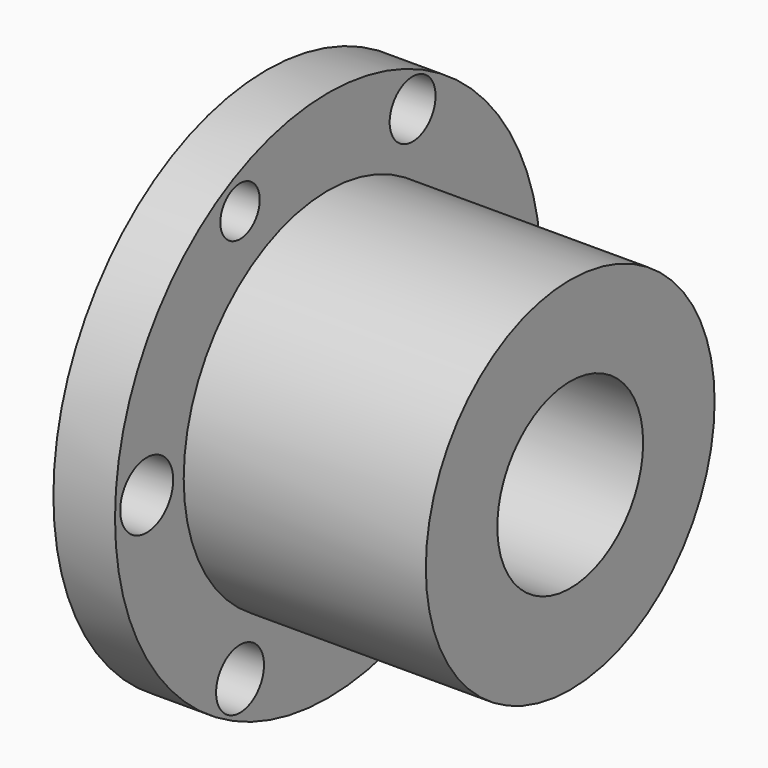
from build123d import *

# Parameters (mm, degrees)
F0_W     = 26.4738108963
F0_H     = 8.0572450534
F2_R     = 7.9422363179
F3_DEPTH = 26.4738108963
F5_R     = 2.1448281624
F5_R_2   = 2.5012779103
F5_R_3   = 2.6092964081
F5_R_4   = 2.5232516324
F5_R_5   = 2.8839759477
F5_R_6   = 2.7467200302
F6_DEPTH = 5.3714960814


with BuildPart() as f1:
    # F0 (on Front) → F1 (revolve)
    with BuildSketch(Plane.XZ):
        Polygon((-48.3434833586, 37.6964099705), (-48.3434833586, 22.5411076099), (-21.8696724623, 22.5411076099), (-21.8696724623, 30.2146784961), (-42.9719872773, 30.2146784961), (-42.9719872773, 37.6964099705), align=None)
        with Locations((-35.1065779105, 18.5124850832)):
            Rectangle(F0_W, F0_H)
    revolve(axis=Axis((-35.1065779105, 0, 14.4838625565), (1, 0, 0)))

    # F2 (on face) → F3 (cut, through all)
    with BuildSketch(Plane.YZ.offset(-21.8696724623)):
        with Locations((0, 14.4838625565)):
            Circle(F2_R)
    extrude(amount=-F3_DEPTH, mode=Mode.SUBTRACT)

    # F5 (on face) → F6 (cut, through all)
    with BuildSketch(Plane.YZ.offset(-42.9719872773)):
        with Locations((-9.5919603482, 32.5167477131)):
            Circle(F5_R)
        with Locations((9.2082852498, 32.7085889876)):
            Circle(F5_R_2)
        with Locations((-9.5919603482, -3.3571864478)):
            Circle(F5_R_3)
        with Locations((9.2082852498, -3.3571864478)):
            Circle(F5_R_4)
        with Locations((-19.7594407946, 14.8675395176)):
            Circle(F5_R_5)
        with Locations((19.7594407946, 14.8675395176)):
            Circle(F5_R_6)
    extrude(amount=-F6_DEPTH, mode=Mode.SUBTRACT)


solid = f1.part
